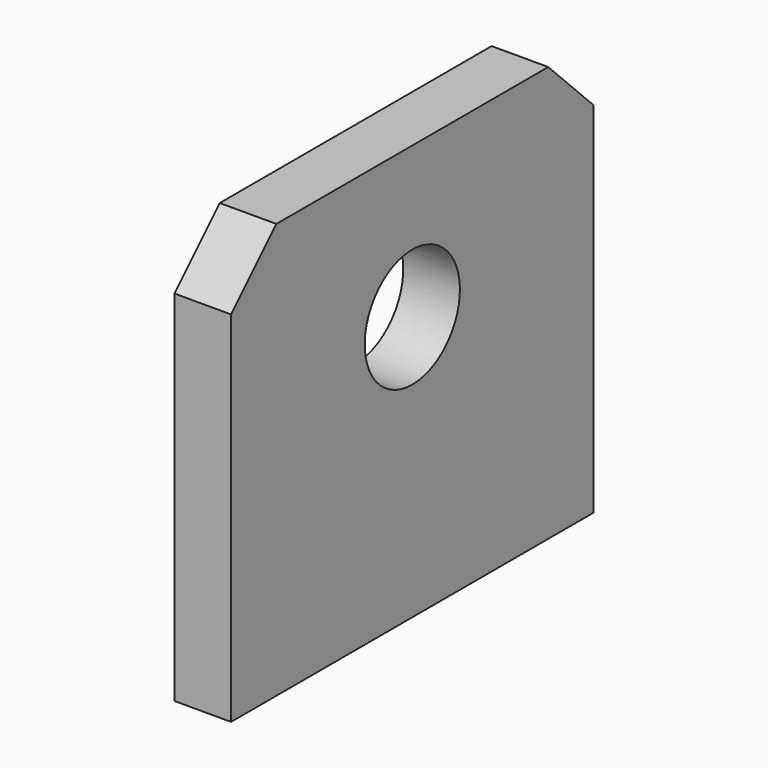
from build123d import *

# Parameters (mm, degrees)
CYLINDER001_R      = 3.15
CYLINDER001_DEPTH  = 10
BOX010_W           = 3
BOX010_H           = 24
BOX010_DEPTH       = 22
CHAMFER020014_SIZE = 3


with BuildPart() as cylinder001:
    # Cylinder001 → Cylinder001 (new body)
    with BuildSketch(Plane(origin=(0, 15, 60), x_dir=(0, 0, -1), z_dir=(1, 0, 0))):
        Circle(CYLINDER001_R)
    extrude(amount=CYLINDER001_DEPTH)


with BuildPart() as cut:
    # Box010 → Box010 (new body)
    with BuildSketch(Plane(origin=(0, 3, 46), x_dir=(1, 0, 0), z_dir=(0, 0, 1))):
        with Locations((1.5, 12)):
            Rectangle(BOX010_W, BOX010_H)
    extrude(amount=BOX010_DEPTH)

    # Chamfer020014
    chamfer020014_edges = [cut.edges().sort_by_distance(p)[0] for p in [
        (1.5, 3, 68),
        (1.5, 27, 68),
    ]]
    chamfer(chamfer020014_edges, length=CHAMFER020014_SIZE)

    # Cut: cut Cylinder001
    add(cylinder001.part, mode=Mode.SUBTRACT)


with BuildPart() as cut_1:
    # Cut placement: moved
    add(cut.part.moved(Location((0, 0, -13))))


solid = cut_1.part
